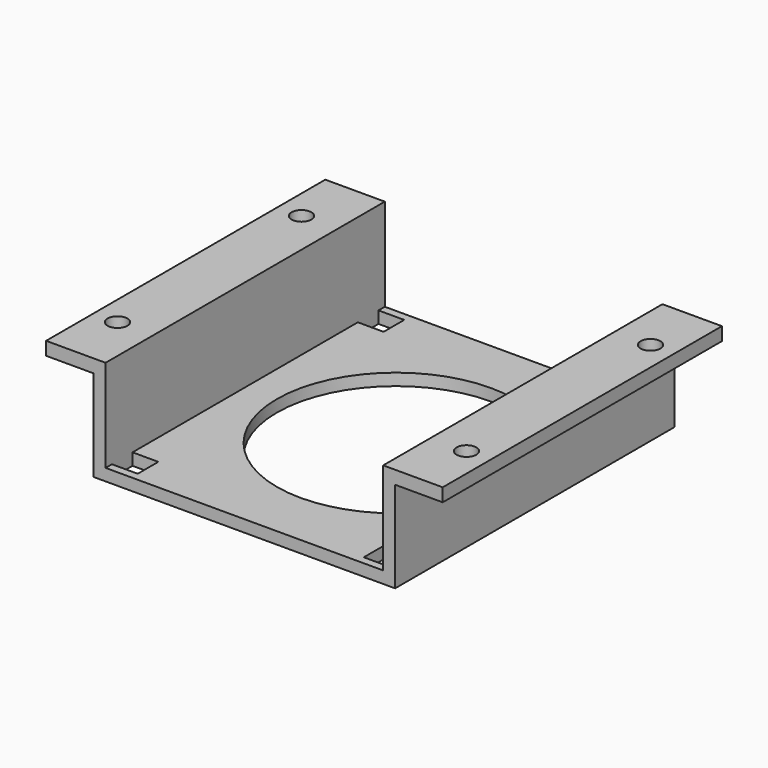
from build123d import *

# Parameters (mm, degrees)
F1_DEPTH = 44
F2_R     = 2.5
F3_DEPTH = 3.330463
F4_R     = 30
F5_DEPTH = 3
F6_W     = 6.5
F6_H     = 6.5
F7_DEPTH = 3


with BuildPart() as f1:
    # F0 (on Front) → F1 (new body, symmetric)
    with BuildSketch(Plane.XZ):
        Polygon((33.025175, -2.207002), (-1.974825, -2.207002), (-1.974825, -5.207002), (36.025175, -5.207002), (36.025175, 17.792998), (48.025175, 17.792998), (48.025175, 21.123461), (33.025175, 21.123461), align=None)
        Polygon((-1.974825, -5.207002), (-1.974825, -2.207002), (-36.974825, -2.207002), (-36.974825, 21.123461), (-51.974825, 21.123461), (-51.974825, 17.792998), (-39.974825, 17.792998), (-39.974825, -5.207002), align=None)
    extrude(amount=F1_DEPTH, both=True)

    # F2 (on face) → F3 (cut, through all)
    with BuildSketch(Plane.XY.offset(21.123461)):
        with Locations((42.025175, -29)):
            Circle(F2_R)
        with Locations((42.025175, 29)):
            Circle(F2_R)
        with Locations((-45.974825, 29)):
            Circle(F2_R)
        with Locations((-45.974825, -29)):
            Circle(F2_R)
    extrude(amount=-F3_DEPTH, mode=Mode.SUBTRACT)

    # F4 (on face) → F5 (cut, through all)
    with BuildSketch(Plane.XY.offset(-2.207002)):
        with Locations((1.025122, 0.000286)):
            Circle(F4_R)
    extrude(amount=-F5_DEPTH, mode=Mode.SUBTRACT)

    # F6 (on face) → F7 (cut, through all)
    with BuildSketch(Plane.XY.offset(-2.207002)):
        with Locations((-33.724825, 38.75)):
            Rectangle(F6_W, F6_H)
        with Locations((29.775175, 38.75)):
            Rectangle(F6_W, F6_H)
        with Locations((29.775175, -38.75)):
            Rectangle(F6_W, F6_H)
        with Locations((-33.724825, -38.75)):
            Rectangle(F6_W, F6_H)
    extrude(amount=-F7_DEPTH, mode=Mode.SUBTRACT)


solid = f1.part
